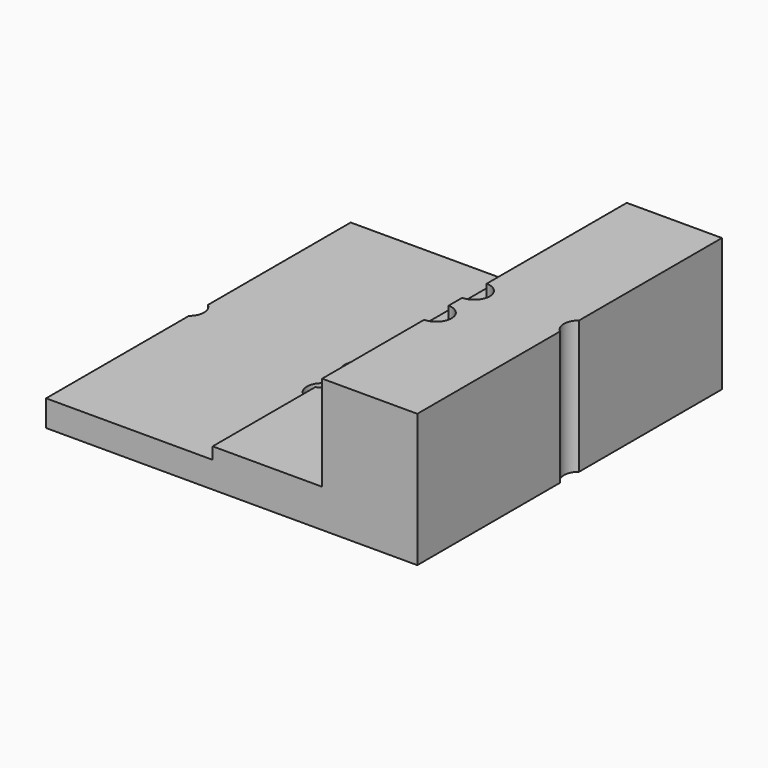
from build123d import *

# Parameters (mm, degrees)
CYLINDER009_R     = 1.6
CYLINDER009_DEPTH = 20
CYLINDER008_R     = 1.6
CYLINDER008_DEPTH = 20
CYLINDER007_R     = 1.6
CYLINDER007_DEPTH = 20
CYLINDER006_R     = 1.6
CYLINDER006_DEPTH = 10
CYLINDER005_R     = 1.6
CYLINDER005_DEPTH = 10
CYLINDER004_R     = 1.6
CYLINDER004_DEPTH = 10
BOX002_W          = 11.5
BOX002_H          = 40
BOX002_DEPTH      = 4
BOX003_W          = 10
BOX003_H          = 40
BOX003_DEPTH      = 14
BOX001_W          = 17.5
BOX001_H          = 40
BOX001_DEPTH      = 2.75


with BuildPart() as cylinder009:
    # Cylinder009 → Cylinder009 (new body)
    with BuildSketch(Plane(origin=(50, 70, -5), x_dir=(1, 0, 0), z_dir=(0, 0, 1))):
        Circle(CYLINDER009_R)
    extrude(amount=CYLINDER009_DEPTH)


with BuildPart() as cylinder008:
    # Cylinder008 → Cylinder008 (new body)
    with BuildSketch(Plane(origin=(39, 70, -5), x_dir=(1, 0, 0), z_dir=(0, 0, 1))):
        Circle(CYLINDER008_R)
    extrude(amount=CYLINDER008_DEPTH)


with BuildPart() as cylinder007:
    # Cylinder007 → Cylinder007 (new body)
    with BuildSketch(Plane(origin=(39, 65, -5), x_dir=(1, 0, 0), z_dir=(0, 0, 1))):
        Circle(CYLINDER007_R)
    extrude(amount=CYLINDER007_DEPTH)


with BuildPart() as cylinder006:
    # Cylinder006 → Cylinder006 (new body)
    with BuildSketch(Plane(origin=(27, 65, -5), x_dir=(1, 0, 0), z_dir=(0, 0, 1))):
        Circle(CYLINDER006_R)
    extrude(amount=CYLINDER006_DEPTH)


with BuildPart() as cylinder005:
    # Cylinder005 → Cylinder005 (new body)
    with BuildSketch(Plane(origin=(27, 70, -5), x_dir=(1, 0, 0), z_dir=(0, 0, 1))):
        Circle(CYLINDER005_R)
    extrude(amount=CYLINDER005_DEPTH)


with BuildPart() as cylinder004:
    # Cylinder004 → Cylinder004 (new body)
    with BuildSketch(Plane(origin=(9, 70, -5), x_dir=(1, 0, 0), z_dir=(0, 0, 1))):
        Circle(CYLINDER004_R)
    extrude(amount=CYLINDER004_DEPTH)


with BuildPart() as cube002:
    # Box002 → Box002 (new body)
    with BuildSketch(Plane(origin=(27.5, 50, 0), x_dir=(1, 0, 0), z_dir=(0, 0, 1))):
        with Locations((5.75, 20)):
            Rectangle(BOX002_W, BOX002_H)
    extrude(amount=BOX002_DEPTH)


with BuildPart() as cube003:
    # Box003 → Box003 (new body)
    with BuildSketch(Plane(origin=(39, 50, 0), x_dir=(1, 0, 0), z_dir=(0, 0, 1))):
        with Locations((5, 20)):
            Rectangle(BOX003_W, BOX003_H)
    extrude(amount=BOX003_DEPTH)


with BuildPart() as cut005:
    # Box001 → Box001 (new body)
    with BuildSketch(Plane(origin=(10, 50, 0), x_dir=(1, 0, 0), z_dir=(0, 0, 1))):
        with Locations((8.75, 20)):
            Rectangle(BOX001_W, BOX001_H)
    extrude(amount=BOX001_DEPTH)

    # Fusion: union Cube002, Cube003
    add(cube002.part)
    add(cube003.part)

    # Cut: cut Cylinder004
    add(cylinder004.part, mode=Mode.SUBTRACT)

    # Cut001: cut Cylinder005
    add(cylinder005.part, mode=Mode.SUBTRACT)

    # Cut002: cut Cylinder006
    add(cylinder006.part, mode=Mode.SUBTRACT)

    # Cut003: cut Cylinder007
    add(cylinder007.part, mode=Mode.SUBTRACT)

    # Cut004: cut Cylinder008
    add(cylinder008.part, mode=Mode.SUBTRACT)

    # Cut005: cut Cylinder009
    add(cylinder009.part, mode=Mode.SUBTRACT)


solid = cut005.part
